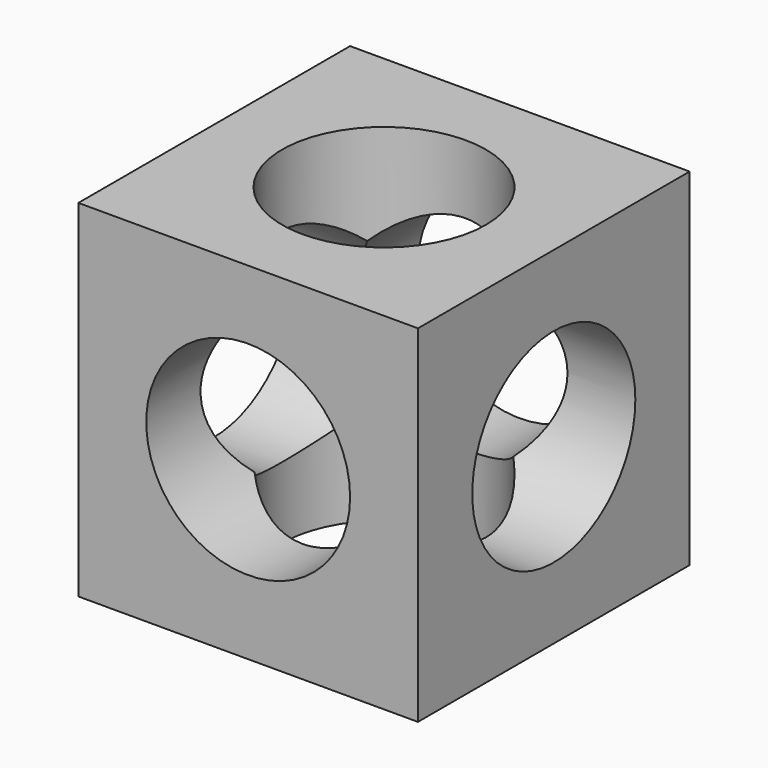
from build123d import *

# Parameters (mm, degrees)
F0_W     = 126.93037
F0_H     = 126.93037
F0_R     = 38.1
F1_DEPTH = 129.5146
F2_R     = 38.1
F3_DEPTH = 129.5146
F4_R     = 38.1
F5_DEPTH = 129.5146


with BuildPart() as f1:
    # F0 (on Top) → F1 (new body)
    with BuildSketch(Plane.XY):
        Rectangle(F0_W, F0_H)
        Circle(F0_R, mode=Mode.SUBTRACT)
    extrude(amount=F1_DEPTH)

    # F2 (on face) → F3 (cut)
    with BuildSketch(Plane.XZ.offset(63.465185)):
        with Locations((0, 65.735653)):
            Circle(F2_R)
    extrude(amount=-F3_DEPTH, mode=Mode.SUBTRACT)

    # F4 (on face) → F5 (cut)
    with BuildSketch(Plane.YZ.offset(63.465185)):
        with Locations((0, 64.757302)):
            Circle(F4_R)
    extrude(amount=-F5_DEPTH, mode=Mode.SUBTRACT)


solid = f1.part
